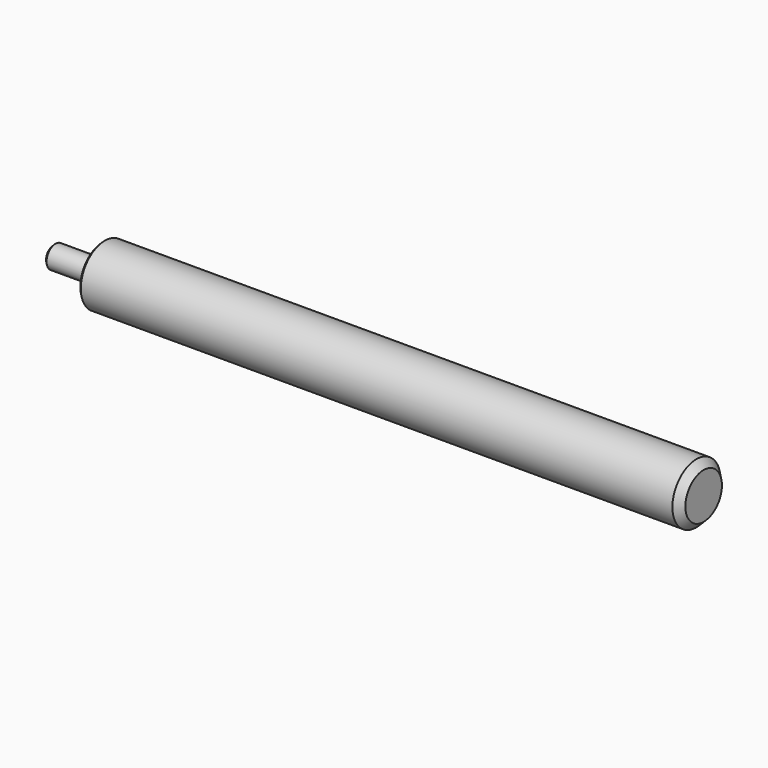
from build123d import *

# Parameters (mm, degrees)
F0_R     = 6.35
F1_DEPTH = 127
F2_SIZE2 = 1.524
F2_SIZE  = 1.524
F3_R     = 2.38125
F4_DEPTH = 10.414
F5_SIZE2 = 0.508
F5_SIZE  = 0.508


with BuildPart() as f1:
    # F0 (on Right) → F1 (new body)
    with BuildSketch(Plane.YZ):
        Circle(F0_R)
    extrude(amount=F1_DEPTH)

    # F2
    f2_edges = [f1.edges().sort_by_distance(p)[0] for p in [
        (127, -6.35, 0),
    ]]
    chamfer(f2_edges, length=F2_SIZE, length2=F2_SIZE2)

    # F3 (on Right) → F4 (join)
    with BuildSketch(Plane.YZ):
        Circle(F3_R)
    extrude(amount=-F4_DEPTH)

    # F5
    f5_edges = [f1.edges().sort_by_distance(p)[0] for p in [
        (0, -6.35, 0),
        (-10.414, -2.38125, 0),
    ]]
    chamfer(f5_edges, length=F5_SIZE, length2=F5_SIZE2)


solid = f1.part
